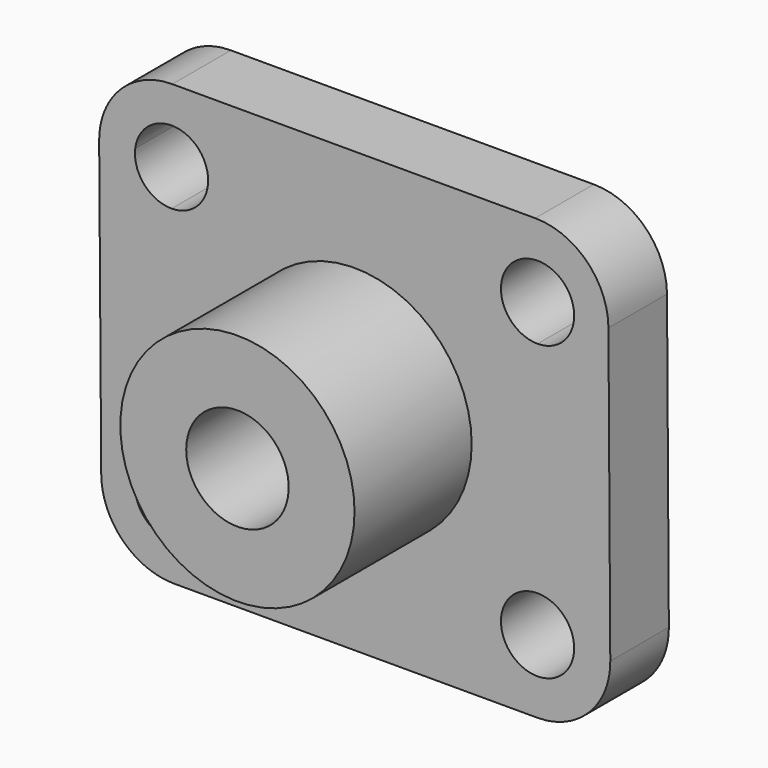
from build123d import *

# Parameters (mm, degrees)
F1_DEPTH = 10
F2_R     = 10
F3_R     = 16
F4_DEPTH = 20
F5_D     = 14
F5_DEPTH = 31
F5_TIP   = 4.2060243332


with BuildPart() as f1:
    # F0 (on Front) → F1 (new body)
    with BuildSketch(Plane.XZ):
        with BuildLine():
            ThreePointArc((-16, 0), (-11.313708499, 11.313708499), (0, 16))
            Line((0, 16), (0, 30))
            Line((0, 30), (-34.9625474322, 30))
            Line((-34.9625474322, 30), (-34.8962779592, 20.6108379355))
            Line((-34.8962779592, 20.6108379355), (-29.9625474322, 20.6108379355))
            ThreePointArc((-29.9625474322, 20.6108379355), (-24.6940074845, 24.9906280747), (-20, 20))
            ThreePointArc((-20, 20), (-21.4644660941, 16.4644660941), (-25, 15))
            Line((-25, 15), (-25, 0))
            Line((-25, 0), (-16, 0))
        make_face()
        with BuildLine():
            ThreePointArc((0, 16), (11.313708499, 11.313708499), (16, 0))
            Line((16, 0), (25, 0))
            Line((25, 0), (25, 15))
            ThreePointArc((25, 15), (21.4644660941, 23.5355339059), (30, 20))
            Line((30, 20), (34.6863753932, 20))
            Line((34.6863753932, 20), (34.6236340702, 30))
            Line((34.6236340702, 30), (0, 30))
            Line((0, 30), (0, 16))
        make_face()
        with BuildLine():
            Line((25, 0), (16, 0))
            ThreePointArc((16, 0), (11.313708499, -11.313708499), (0, -16))
            Line((0, -16), (0, -29.9935078941))
            Line((0, -29.9935078941), (35, -29.9869291484))
            Line((35, -29.9869291484), (34.9391447048, -20.2875329247))
            Line((34.9391447048, -20.2875329247), (29.9917256352, -20.2875329247))
            ThreePointArc((29.9917256352, -20.2875329247), (21.3642287872, -23.432370564), (25, -15))
            Line((25, -15), (25, 0))
        make_face()
        with BuildLine():
            Line((0, -29.9935078941), (0, -16))
            ThreePointArc((0, -16), (-11.313708499, -11.313708499), (-16, 0))
            Line((-16, 0), (-25, 0))
            Line((-25, 0), (-25, -15))
            ThreePointArc((-25, -15), (-21.4644660941, -16.4644660941), (-20, -20))
            ThreePointArc((-20, -20), (-24.9096942239, -24.9991844202), (-29.9967379467, -20.1805820915))
            Line((-29.9967379467, -20.1805820915), (-34.6083687837, -20.1805820915))
            Line((-34.6083687837, -20.1805820915), (-34.5390625298, -30))
            Line((-34.5390625298, -30), (0, -29.9935078941))
        make_face()
        with BuildLine():
            Line((-25, -15), (-25, 0))
            Line((-25, 0), (-25, 15))
            ThreePointArc((-25, 15), (-28.7452763368, 16.6874624287), (-29.9625474322, 20.6108379355))
            Line((-29.9625474322, 20.6108379355), (-34.8962779592, 20.6108379355))
            Line((-34.8962779592, 20.6108379355), (-34.6083687837, -20.1805820915))
            Line((-34.6083687837, -20.1805820915), (-29.9967379467, -20.1805820915))
            ThreePointArc((-29.9967379467, -20.1805820915), (-28.5988130305, -16.5288986227), (-25, -15))
        make_face()
        with BuildLine():
            Line((25, 15), (25, 0))
            Line((25, 0), (25, -15))
            ThreePointArc((25, -15), (28.5355339059, -16.4644660941), (30, -20))
            ThreePointArc((30, -20), (29.9979309807, -20.1438259781), (29.9917256352, -20.2875329247))
            Line((29.9917256352, -20.2875329247), (34.9391447048, -20.2875329247))
            Line((34.9391447048, -20.2875329247), (34.6863753932, 20))
            Line((34.6863753932, 20), (30, 20))
            ThreePointArc((30, 20), (28.5355339059, 16.4644660941), (25, 15))
        make_face()
        with BuildLine():
            ThreePointArc((-16, 0), (-11.313708499, -11.313708499), (0, -16))
            Line((0, -16), (0, 0))
            Line((0, 0), (-16, 0))
        make_face()
        with BuildLine():
            Line((0, 0), (0, 16))
            ThreePointArc((0, 16), (-11.313708499, 11.313708499), (-16, 0))
            Line((-16, 0), (0, 0))
        make_face()
        with BuildLine():
            Line((0, 0), (16, 0))
            ThreePointArc((16, 0), (11.313708499, 11.313708499), (0, 16))
            Line((0, 16), (0, 0))
        make_face()
        with BuildLine():
            ThreePointArc((0, -16), (11.313708499, -11.313708499), (16, 0))
            Line((16, 0), (0, 0))
            Line((0, 0), (0, -16))
        make_face()
    extrude(amount=F1_DEPTH)

    # F2
    f2_edges = [f1.edges().sort_by_distance(p)[0] for p in [
        (34.623634, -5, 30),
        (-34.962547, -5, 30),
        (35, -5, -29.986929),
        (-34.539063, -5, -30),
    ]]
    fillet(f2_edges, radius=F2_R)

    # F3 (on face) → F4 (join)
    with BuildSketch(Plane.XZ.offset(10)):
        Circle(F3_R)
    extrude(amount=F4_DEPTH)

    # F5
    with Locations(Plane(origin=(0, 0, 0), x_dir=(1, 0, 0), z_dir=(0, 1, 0))):
        with Locations((0, 0)):
            Hole(F5_D / 2, depth=F5_DEPTH)
            with Locations((0, 0, -(F5_DEPTH + F5_TIP / 2))):  # 118° drill point
                Cone(0, F5_D / 2, F5_TIP, mode=Mode.SUBTRACT)


solid = f1.part
